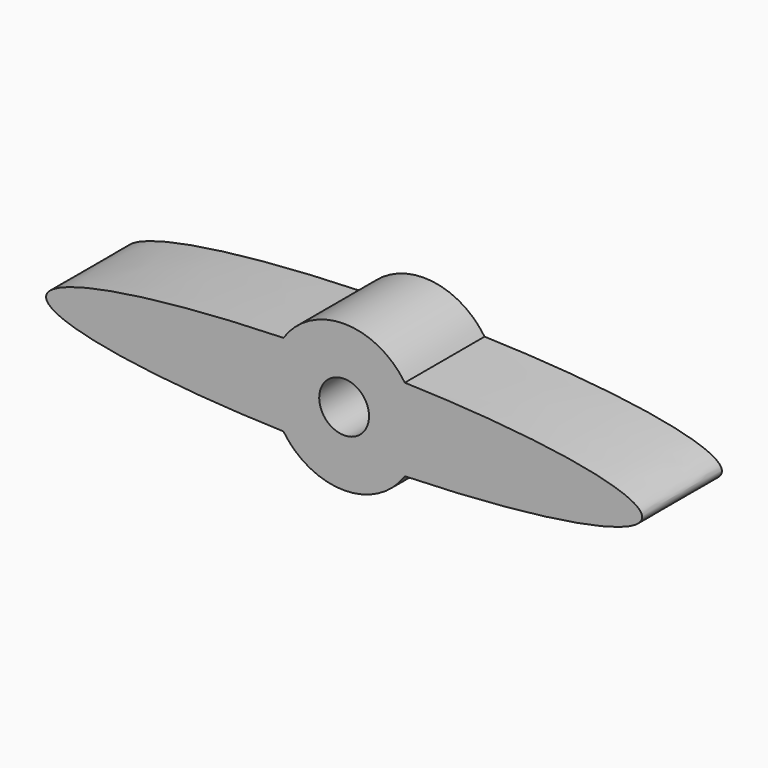
from build123d import *

# Parameters (mm, degrees)
F1_DEPTH = 25.4
F2_D     = 12.7


with BuildPart() as f1:
    # F0 (on Front) → F1 (new body)
    with BuildSketch(Plane.XZ):
        with BuildLine():
            ThreePointArc((15.4629041106, -10.4894333364), (17.8613288985, -5.4865786456), (18.6850104429, 0))
            ThreePointArc((18.6850104429, 0), (17.8613288985, 5.4865786456), (15.4629041106, 10.4894333364))
            add(Edge.make_bspline(
                [(15.4629041106, 10.4894333364), (0, 10.9432349415), (-15.4629041106, 10.4894333364)],
                knots=[4.5073159881, 4.5073159881, 4.5073159881, 4.9174619727, 4.9174619727, 4.9174619727], degree=2, weights=[1, 0.9790461231, 1]))
            ThreePointArc((-15.4629041106, 10.4894333364), (-18.6850104429, 0), (-15.4629041106, -10.4894333364))
            add(Edge.make_bspline(
                [(-15.4629041106, -10.4894333364), (0, -10.9432349415), (15.4629041106, -10.4894333364)],
                knots=[1.3657233345, 1.3657233345, 1.3657233345, 1.7758693191, 1.7758693191, 1.7758693191], degree=2, weights=[1, 0.9790461231, 1]))
        make_face()
        with BuildLine():
            ThreePointArc((15.4629041106, 10.4894333364), (17.8613288985, 5.4865786456), (18.6850104429, 0))
            ThreePointArc((18.6850104429, 0), (17.8613288985, -5.4865786456), (15.4629041106, -10.4894333364))
            add(Edge.make_bspline(
                [(15.4629041106, -10.4894333364), (75.9330615401, -8.7147696442), (75.9330615401, 0), (75.9330615401, 8.7147696442), (15.4629041106, 10.4894333364)],
                knots=[1.7758693191, 1.7758693191, 1.7758693191, 3.1415926536, 3.1415926536, 4.5073159881, 4.5073159881, 4.5073159881], degree=2, weights=[1, 0.775770141, 1, 0.775770141, 1]))
        make_face()
        with BuildLine():
            add(Edge.make_bspline(
                [(15.4629041106, 10.4894333364), (0, 10.9432349415), (-15.4629041106, 10.4894333364)],
                knots=[4.5073159881, 4.5073159881, 4.5073159881, 4.9174619727, 4.9174619727, 4.9174619727], degree=2, weights=[1, 0.9790461231, 1]))
            ThreePointArc((15.4629041106, 10.4894333364), (0, 18.6850104429), (-15.4629041106, 10.4894333364))
        make_face()
        with BuildLine():
            ThreePointArc((-15.4629041106, -10.4894333364), (0, -18.6850104429), (15.4629041106, -10.4894333364))
            add(Edge.make_bspline(
                [(-15.4629041106, -10.4894333364), (0, -10.9432349415), (15.4629041106, -10.4894333364)],
                knots=[1.3657233345, 1.3657233345, 1.3657233345, 1.7758693191, 1.7758693191, 1.7758693191], degree=2, weights=[1, 0.9790461231, 1]))
        make_face()
        with BuildLine():
            ThreePointArc((-15.4629041106, -10.4894333364), (-18.6850104429, 0), (-15.4629041106, 10.4894333364))
            add(Edge.make_bspline(
                [(-15.4629041106, 10.4894333364), (-75.9330615401, 8.7147696442), (-75.9330615401, 0)],
                knots=[4.9174619727, 4.9174619727, 4.9174619727, 6.2831853072, 6.2831853072, 6.2831853072], degree=2, weights=[1, 0.775770141, 1]))
            add(Edge.make_bspline(
                [(-75.9330615401, 0), (-75.9330615401, -8.7147696442), (-15.4629041106, -10.4894333364)],
                knots=[0, 0, 0, 1.3657233345, 1.3657233345, 1.3657233345], degree=2, weights=[1, 0.775770141, 1]))
        make_face()
    extrude(amount=F1_DEPTH)

    # F2 (through all)
    with Locations(Plane(origin=(0, 0, 0), x_dir=(1, 0, 0), z_dir=(0, 1, 0))):
        with Locations((0, 0)):
            Hole(F2_D / 2)


solid = f1.part
